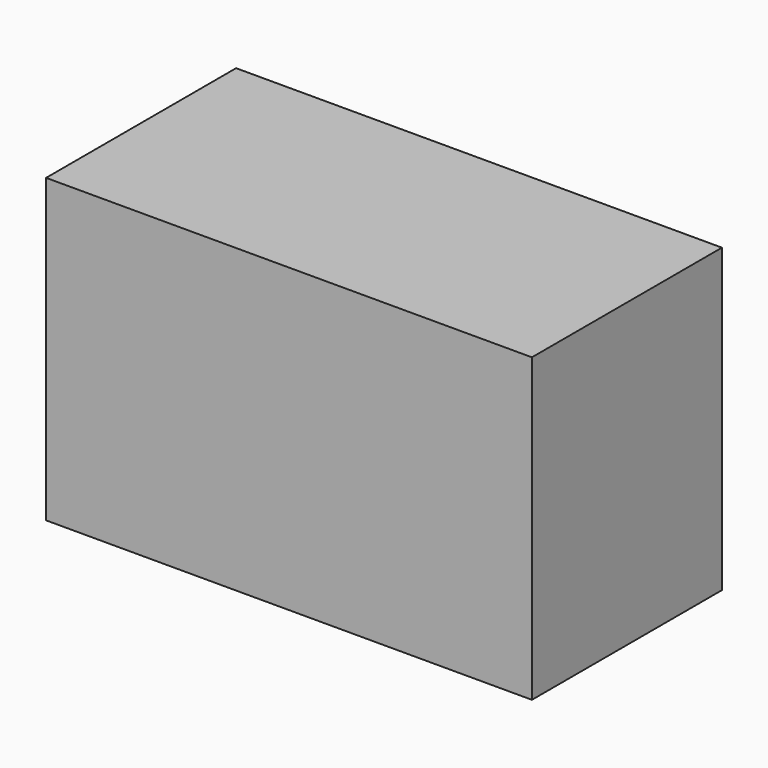
from build123d import *

# Parameters (mm, degrees)
F1_DEPTH = 25


with BuildPart() as f1:
    # F0 (on Front) → F1 (new body)
    with BuildSketch(Plane.XZ):
        with BuildLine():
            ThreePointArc((-41.2172991177, 48.9443764091), (-45.4232734724, 43.3574526965), (-51.1414520442, 39.3317390127))
            Line((-51.1414520442, 39.3317390127), (-51.1414520442, 17.2028224915))
            Line((-51.1414520442, 17.2028224915), (0, 17.2028224915))
            Line((0, 17.2028224915), (0, 48.9443764091))
            Line((0, 48.9443764091), (-41.2172991177, 48.9443764091))
        make_face()
        with BuildLine():
            Line((-51.1414520442, 48.9443764091), (-51.1414520442, 39.3317390127))
            ThreePointArc((-51.1414520442, 39.3317390127), (-45.4232734724, 43.3574526965), (-41.2172991177, 48.9443764091))
            Line((-41.2172991177, 48.9443764091), (-51.1414520442, 48.9443764091))
        make_face()
    extrude(amount=F1_DEPTH)


solid = f1.part
